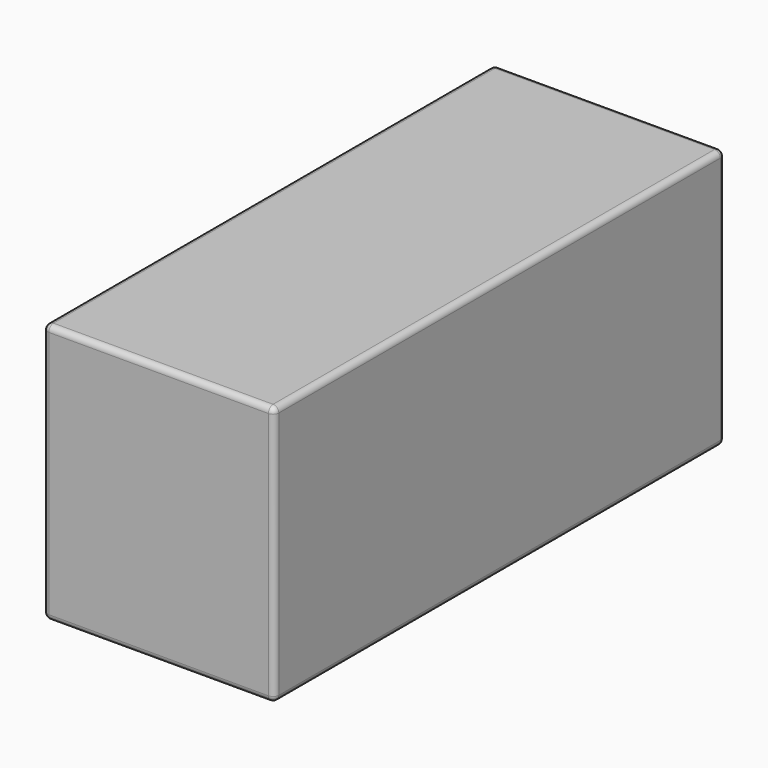
from build123d import *

# Parameters (mm, degrees)
F0_W     = 203.2
F0_H     = 228.6
F1_DEPTH = 495.3
F2_R     = 5.08
F3_R     = 5.08
F4_R     = 5.08
F5_R     = 5.08
F6_R     = 5.08
F7_R     = 5.08


with BuildPart() as f1:
    # F0 (on Front) → F1 (new body)
    with BuildSketch(Plane.XZ):
        Rectangle(F0_W, F0_H)
    extrude(amount=-F1_DEPTH)

    # F2
    f2_edges = [f1.edges().sort_by_distance(p)[0] for p in [
        (101.6, 247.65, 114.3),
    ]]
    fillet(f2_edges, radius=F2_R)

    # F3
    f3_edges = [f1.edges().sort_by_distance(p)[0] for p in [
        (-101.6, 247.65, 114.3),
    ]]
    fillet(f3_edges, radius=F3_R)

    # F4
    f4_edges = [f1.edges().sort_by_distance(p)[0] for p in [
        (101.6, 247.65, -114.3),
    ]]
    fillet(f4_edges, radius=F4_R)

    # F5
    f5_edges = [f1.edges().sort_by_distance(p)[0] for p in [
        (-101.6, 247.65, -114.3),
    ]]
    fillet(f5_edges, radius=F5_R)

    # F6
    f6_edges = [f1.edges().sort_by_distance(p)[0] for p in [
        (0, 0, 114.3),
    ]]
    fillet(f6_edges, radius=F6_R)

    # F7
    f7_edges = [f1.edges().sort_by_distance(p)[0] for p in [
        (0, 495.3, 114.3),
    ]]
    fillet(f7_edges, radius=F7_R)


solid = f1.part
